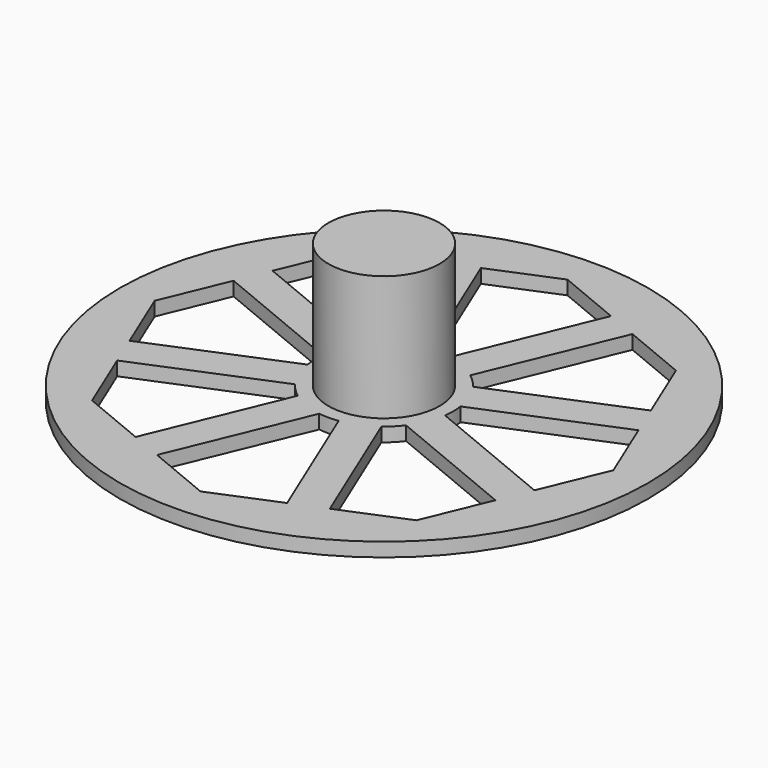
from build123d import *

# Parameters (mm, degrees)
F0_R     = 16
F1_DEPTH = 40
F2_R     = 12.6
F3_DEPTH = 10
F4_R     = 76
F4_R_2   = 16
F5_DEPTH = 4
F7_DEPTH = 4


with BuildPart() as f1:
    # F0 (on Top) → F1 (new body)
    with BuildSketch(Plane.XY):
        Circle(F0_R)
    extrude(amount=F1_DEPTH)

    # F2 (on face) → F3 (cut)
    with BuildSketch(Plane(origin=(0, 0, 0), x_dir=(1, 0, 0), z_dir=(0, 0, -1))):
        Circle(F2_R)
    extrude(amount=-F3_DEPTH, mode=Mode.SUBTRACT)

    # F4 (on Top) → F5 (join)
    with BuildSketch(Plane.XY):
        Circle(F4_R)
        Circle(F4_R_2, mode=Mode.SUBTRACT)
    extrude(amount=F5_DEPTH)

    # F6 (on face) → F7 (cut, through all)
    with BuildSketch(Plane.XY.offset(4)):
        with BuildLine():
            Line((27.953921, -54.421107), (46.669048, -46.669048))
            Line((46.669048, -46.669048), (54.421107, -27.953921))
            Line((54.421107, -27.953921), (15.977433, -12.03003))
            ThreePointArc((15.977433, -12.03003), (14.142136, -14.142136), (12.03003, -15.977433))
            Line((12.03003, -15.977433), (27.953921, -54.421107))
        make_face()
        with BuildLine():
            Line((-18.715126, -58.247941), (0, -66))
            Line((0, -66), (18.715126, -58.247941))
            Line((18.715126, -58.247941), (2.791235, -19.804267))
            ThreePointArc((2.791235, -19.804267), (0, -20), (-2.791235, -19.804267))
            Line((-2.791235, -19.804267), (-18.715126, -58.247941))
        make_face()
        with BuildLine():
            Line((-54.421107, -27.953921), (-46.669048, -46.669048))
            Line((-46.669048, -46.669048), (-27.953921, -54.421107))
            Line((-27.953921, -54.421107), (-12.03003, -15.977433))
            ThreePointArc((-12.03003, -15.977433), (-14.142136, -14.142136), (-15.977433, -12.03003))
            Line((-15.977433, -12.03003), (-54.421107, -27.953921))
        make_face()
        with BuildLine():
            Line((-58.247941, 18.715126), (-66, 0))
            Line((-66, 0), (-58.247941, -18.715126))
            Line((-58.247941, -18.715126), (-19.804267, -2.791235))
            ThreePointArc((-19.804267, -2.791235), (-20, 0), (-19.804267, 2.791235))
            Line((-19.804267, 2.791235), (-58.247941, 18.715126))
        make_face()
        with BuildLine():
            Line((-27.953921, 54.421107), (-46.669048, 46.669048))
            Line((-46.669048, 46.669048), (-54.421107, 27.953921))
            Line((-54.421107, 27.953921), (-15.977433, 12.03003))
            ThreePointArc((-15.977433, 12.03003), (-14.142136, 14.142136), (-12.03003, 15.977433))
            Line((-12.03003, 15.977433), (-27.953921, 54.421107))
        make_face()
        with BuildLine():
            Line((18.715126, 58.247941), (0, 66))
            Line((0, 66), (-18.715126, 58.247941))
            Line((-18.715126, 58.247941), (-2.791235, 19.804267))
            ThreePointArc((-2.791235, 19.804267), (0, 20), (2.791235, 19.804267))
            Line((2.791235, 19.804267), (18.715126, 58.247941))
        make_face()
        with BuildLine():
            Line((54.421107, 27.953921), (46.669048, 46.669048))
            Line((46.669048, 46.669048), (27.953921, 54.421107))
            Line((27.953921, 54.421107), (12.03003, 15.977433))
            ThreePointArc((12.03003, 15.977433), (14.142136, 14.142136), (15.977433, 12.03003))
            Line((15.977433, 12.03003), (54.421107, 27.953921))
        make_face()
        with BuildLine():
            Line((58.247941, -18.715126), (66, 0))
            Line((66, 0), (58.247941, 18.715126))
            Line((58.247941, 18.715126), (19.804267, 2.791235))
            ThreePointArc((19.804267, 2.791235), (20, 0), (19.804267, -2.791235))
            Line((19.804267, -2.791235), (58.247941, -18.715126))
        make_face()
    extrude(amount=-F7_DEPTH, mode=Mode.SUBTRACT)


solid = f1.part
